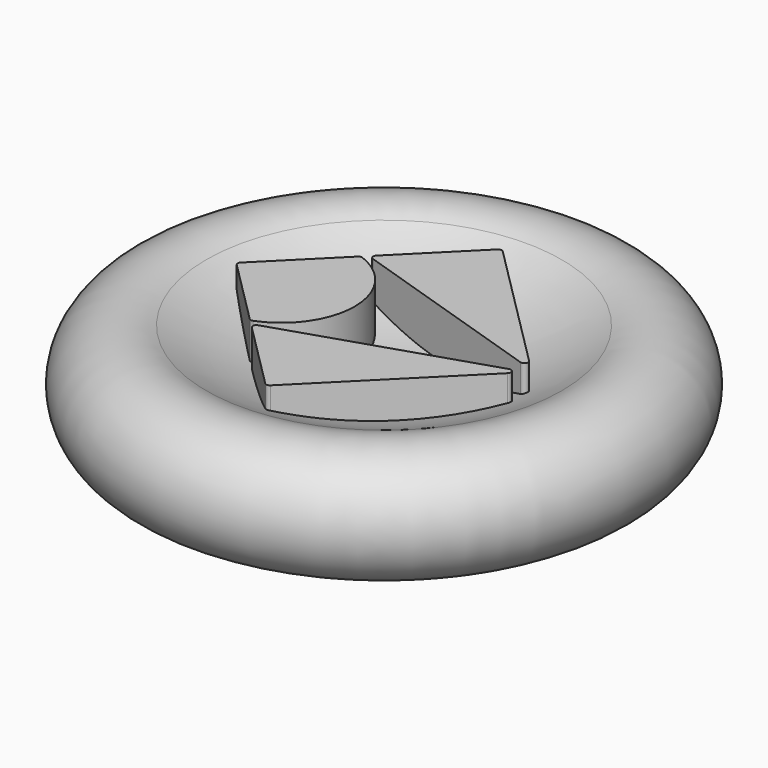
from build123d import *

# Parameters (mm, degrees)
F4_DEPTH = 8


with BuildPart() as f1:
    # F0 (on Front) → F1 (revolve)
    with BuildSketch(Plane.XZ):
        with BuildLine():
            ThreePointArc((-14, 0), (-11.171573, 1.171573), (-10, 4))
            ThreePointArc((-10, 4), (-10.570028, 6.057983), (-12.117647, 7.529412))
            ThreePointArc((-12.117647, 7.529412), (-17.88057, 4.970143), (-14, 0))
        make_face()
        with BuildLine():
            ThreePointArc((-12.117647, 7.529412), (-10.570028, 6.057983), (-10, 4))
            ThreePointArc((-10, 4), (-11.171573, 1.171573), (-14, 0))
            Line((-14, 0), (0, 0))
            Line((0, 0), (0, 4.5))
            ThreePointArc((0, 4.5), (-6.245292, 5.268831), (-12.117647, 7.529412))
        make_face()
    revolve(axis=Axis((0, 0, 2.25), (0, 0, 1)))

    # F3 (on offset) → F4 (join)
    with BuildSketch(Plane.XY.offset(8)):
        with BuildLine():
            ThreePointArc((8.910887, 0.496964), (9.201139, 0.604277), (9.164694, 0.911578))
            Line((9.164694, 0.911578), (0.176777, 9.899495))
            ThreePointArc((0.176777, 9.899495), (0, 9.972718), (-0.176777, 9.899495))
            Line((-0.176777, 9.899495), (-4.767034, 5.309237))
            ThreePointArc((-4.767034, 5.309237), (-4.833323, 5.073984), (-4.667288, 4.894624))
            Line((-4.667288, 4.894624), (8.910887, 0.496964))
        make_face()
        with BuildLine():
            Line((-4.767034, -5.309237), (-0.176777, -9.899495))
            ThreePointArc((-0.176777, -9.899495), (0, -9.972718), (0.176777, -9.899495))
            Line((0.176777, -9.899495), (9.164694, -0.911578))
            ThreePointArc((9.164694, -0.911578), (9.201139, -0.604277), (8.910887, -0.496964))
            Line((8.910887, -0.496964), (-4.667288, -4.894624))
            ThreePointArc((-4.667288, -4.894624), (-4.833323, -5.073984), (-4.767034, -5.309237))
        make_face()
        with BuildLine():
            Line((-5.467639, 4.608633), (-9.93485, 0.141421))
            ThreePointArc((-9.93485, 0.141421), (-9.974789, -0.02408), (-9.899495, -0.176777))
            Line((-9.899495, -0.176777), (-5.467639, -4.608633))
            ThreePointArc((-5.467639, -4.608633), (-5.34265, -4.676433), (-5.200908, -4.665112))
            ThreePointArc((-5.200908, -4.665112), (-2, 0), (-5.200908, 4.665112))
            ThreePointArc((-5.200908, 4.665112), (-5.34265, 4.676433), (-5.467639, 4.608633))
        make_face()
    extrude(amount=-F4_DEPTH)


solid = f1.part
